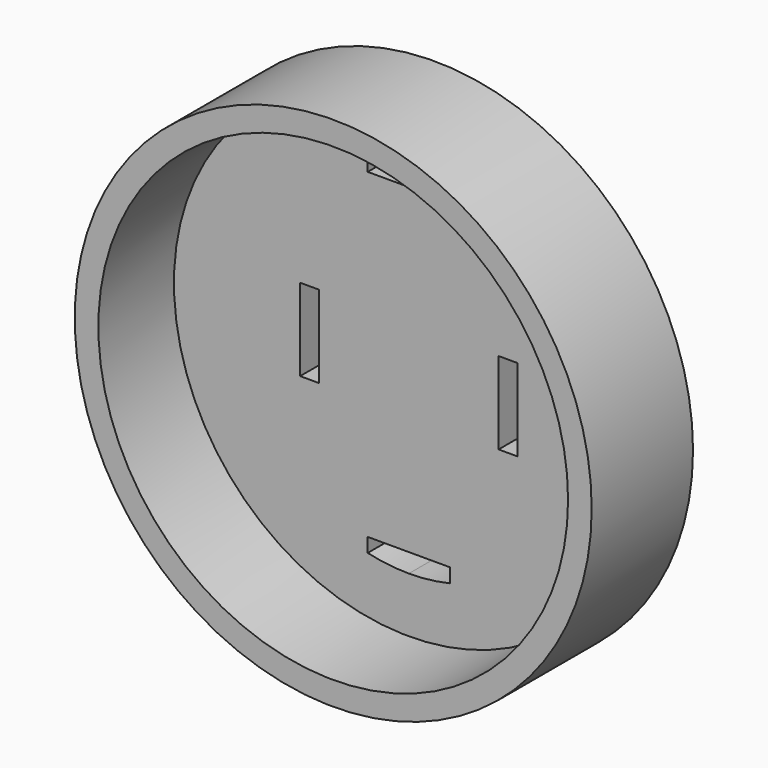
from build123d import *

# Parameters (mm, degrees)
F0_R      = 13.675
F1_DEPTH  = 6.7
F2_R      = 12.425
F3_DEPTH  = 5
F4_R      = 4.75
F5_DEPTH  = 0.2
F4_R_2    = 12.5
F4_R_3    = 9.5
F6_DEPTH  = 0.2
F8_DEPTH  = 6.701
F10_DEPTH = 6.701


with BuildPart() as f1:
    # F0 (on Front) → F1 (new body)
    with BuildSketch(Plane.XZ):
        Circle(F0_R)
    extrude(amount=F1_DEPTH)

    # F2 (on face) → F3 (cut)
    with BuildSketch(Plane.XZ.offset(6.7)):
        Circle(F2_R)
    extrude(amount=-F3_DEPTH, mode=Mode.SUBTRACT)

    # F4 (on face) → F5 (join)
    with BuildSketch(Plane(origin=(0, 0, 0), x_dir=(-1, 0, 0), z_dir=(0, 1, 0))):
        Circle(F4_R)
    extrude(amount=F5_DEPTH)

    # F4 (on face) → F6 (join)
    with BuildSketch(Plane(origin=(0, 0, 0), x_dir=(-1, 0, 0), z_dir=(0, 1, 0))):
        Circle(F4_R_2)
        Circle(F4_R_3, mode=Mode.SUBTRACT)
    extrude(amount=F6_DEPTH)

    # F7 (on face) → F8 (cut, through all)
    with BuildSketch(Plane(origin=(0, 0, 0), x_dir=(-1, 0, 0), z_dir=(0, 1, 0))):
        Polygon((-4.75, -2.175), (-4.75, 0), (-4.75, 2.175), (-5.75, 2.175), (-5.75, -2.175), align=None)
        Polygon((5.75, 2.175), (4.75, 2.175), (4.75, 0), (4.75, -2.175), (5.75, -2.175), align=None)
    extrude(amount=-F8_DEPTH, mode=Mode.SUBTRACT)

    # F9 (on face) → F10 (cut, through all)
    with BuildSketch(Plane(origin=(0, 0, 0), x_dir=(-1, 0, 0), z_dir=(0, 1, 0))):
        with BuildLine():
            Line((-2.175, -8.5), (-2.175, -9.2476686251))
            ThreePointArc((-2.175, -9.2476686251), (-1.0947940586, -9.4367063094), (0, -9.5))
            ThreePointArc((0, -9.5), (1.0947940586, -9.4367063094), (2.175, -9.2476686251))
            Line((2.175, -9.2476686251), (2.175, -8.5))
            Line((2.175, -8.5), (-2.175, -8.5))
        make_face()
        with BuildLine():
            ThreePointArc((2.175, 9.2476686251), (1.0947940586, 9.4367063094), (0, 9.5))
            ThreePointArc((0, 9.5), (-1.0947940586, 9.4367063094), (-2.175, 9.2476686251))
            Line((-2.175, 9.2476686251), (-2.175, 8.5))
            Line((-2.175, 8.5), (2.175, 8.5))
            Line((2.175, 8.5), (2.175, 9.2476686251))
        make_face()
    extrude(amount=-F10_DEPTH, mode=Mode.SUBTRACT)


solid = f1.part
